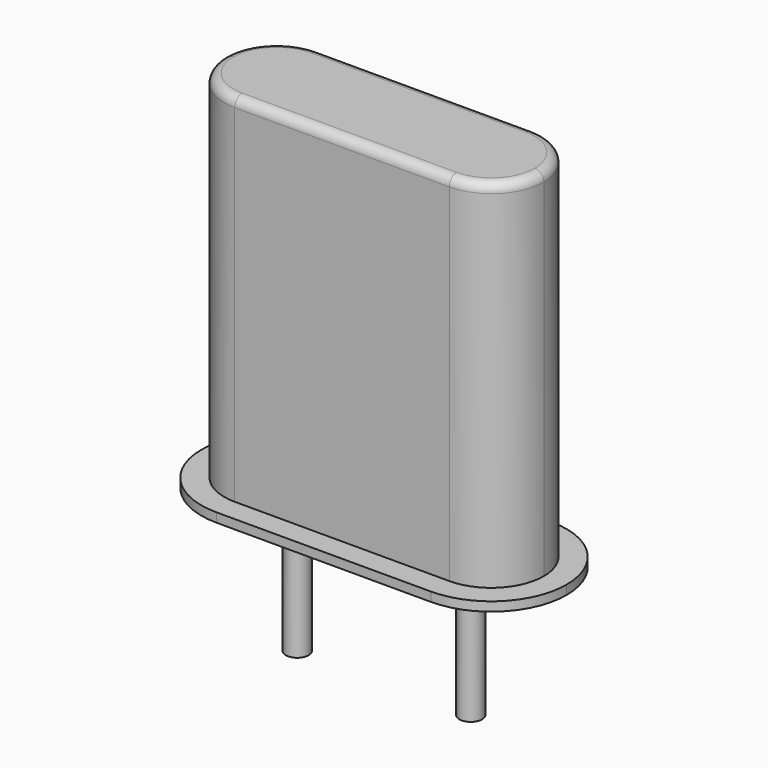
from build123d import *

# Parameters (mm, degrees)
SKETCH_R     = 0.25
PAD_DEPTH    = 3
PAD001_DEPTH = 0.2
PAD002_DEPTH = 8
FILLET_R     = 0.2


with BuildPart() as pad:
    # Sketch → Pad (new body)
    with BuildSketch(Plane.XY.offset(0.1)):
        Circle(SKETCH_R)
        with Locations((3.8, 0)):
            Circle(SKETCH_R)
    extrude(amount=-PAD_DEPTH)


with BuildPart() as pad001:
    # Sketch001 → Pad001 (new body)
    with BuildSketch(Plane.XY.offset(0.1)):
        with BuildLine():
            Line((-0.45, 1.65), (4.25, 1.65))
            ThreePointArc((5.9, 0), (5.416726, 1.166726), (4.25, 1.65))
            ThreePointArc((4.25, -1.65), (5.416726, -1.166726), (5.9, 0))
            Line((4.25, -1.65), (-0.45, -1.65))
            ThreePointArc((-2.1, 0), (-1.616726, -1.166726), (-0.45, -1.65))
            ThreePointArc((-0.45, 1.65), (-1.616726, 1.166726), (-2.1, 0))
        make_face()
    extrude(amount=PAD001_DEPTH)


with BuildPart() as fillet_body:
    # Sketch003 → Pad002 (new body)
    with BuildSketch(Plane.XY.offset(0.1)):
        with BuildLine():
            Line((-0.45, 1.15), (4.25, 1.15))
            ThreePointArc((5.4, 0), (5.063173, 0.813173), (4.25, 1.15))
            ThreePointArc((4.25, -1.15), (5.063173, -0.813173), (5.4, 0))
            Line((4.25, -1.15), (-0.45, -1.15))
            ThreePointArc((-1.6, 0), (-1.263173, -0.813173), (-0.45, -1.15))
            ThreePointArc((-0.45, 1.15), (-1.263173, 0.813173), (-1.6, 0))
        make_face()
    extrude(amount=PAD002_DEPTH)

    # Fillet
    fillet_edges = [fillet_body.edges().sort_by_distance(p)[0] for p in [
        (1.9, 1.15, 8.1),
        (-1.263173, 0.813173, 8.1),
        (-1.263173, -0.813173, 8.1),
        (1.9, -1.15, 8.1),
        (5.063173, -0.813173, 8.1),
        (5.063173, 0.813173, 8.1),
    ]]
    fillet(fillet_edges, radius=FILLET_R)


solid = Compound([pad.part, pad001.part, fillet_body.part])
